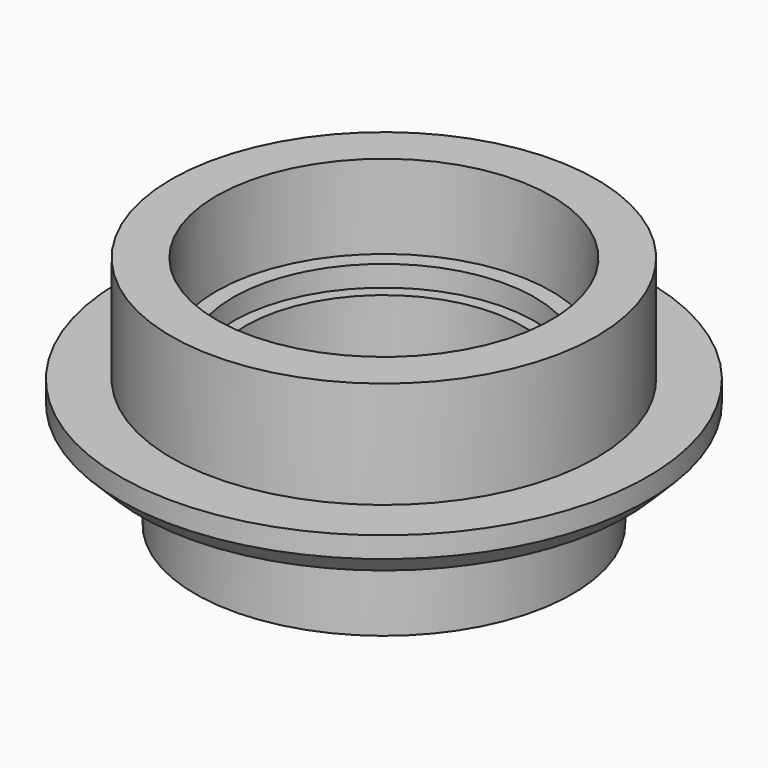
from build123d import *

# Parameters (mm, degrees)
F2_SIZE = 5


with BuildPart() as f1:
    # F0 (on Front) → F1 (revolve)
    with BuildSketch(Plane.XZ):
        Polygon((-40, -20), (-40, 0), (-50.75, 0), (-50.75, -25.5), (-63, -25.5), (-63, -35.5), (-45, -35.5), (-45, -56), (-35.5, -56), (-35.5, -41), (-33, -41), (-33, -25), (-36, -25), (-36, -20), align=None)
    revolve(axis=Axis((0, 0, -28), (0, 0, -1)))

    # F2
    f2_edges = [f1.edges().sort_by_distance(p)[0] for p in [
        (63, 0, -35.5),
        (45, 0, -35.5),
    ]]
    chamfer(f2_edges, length=F2_SIZE)


solid = f1.part
